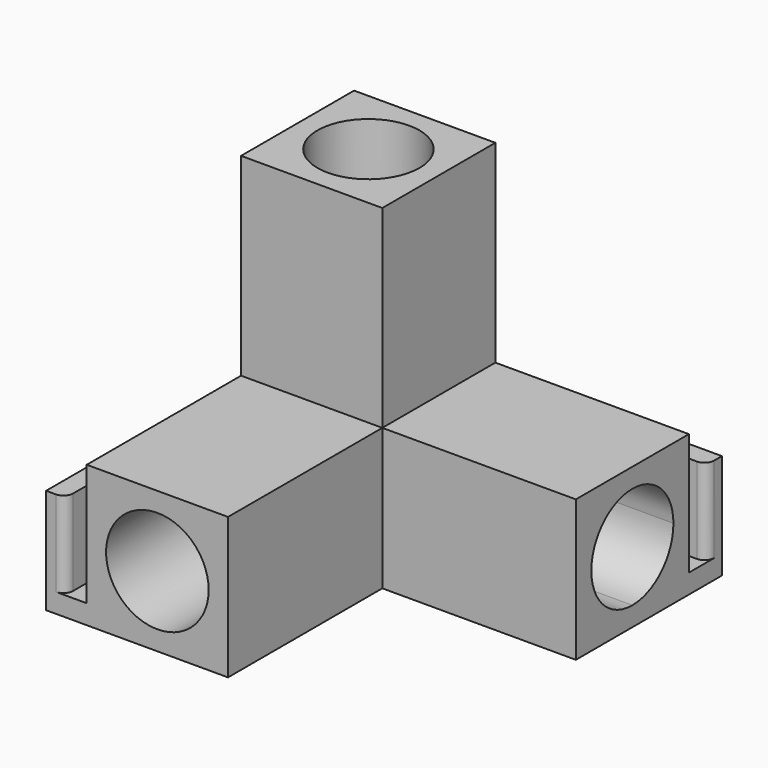
from build123d import *

# Parameters (mm, degrees)
F0_W      = 27
F0_H      = 15.9
F0_W_2    = 15.9
F0_H_2    = 27
F0_W_3    = 3
F0_H_3    = 3
F1_DEPTH  = 21.9
F2_DEPTH  = 51.8
F3_R      = 7.95
F6_DEPTH  = 30
F7_DEPTH  = 30
F4_R      = 7.9
F8_DEPTH  = 30
F10_DEPTH = 58.2
F11_W     = 3
F11_H     = 13.3
F13_R     = 1.5


with BuildPart() as f1:
    # F0 (on Front) → F1 (new body)
    with BuildSketch(Plane.XZ):
        with BuildLine():
            Line((-34.3576915575, 15.9), (-42.3076915575, 15.9))
            Line((-42.3076915575, 15.9), (-42.3076915575, 7.9499999931))
            ThreePointArc((-42.3076915575, 7.9499999931), (-39.9791904704, 13.571498908), (-34.3576915575, 15.9))
        make_face()
        with BuildLine():
            ThreePointArc((-34.3576915575, 15.9), (-39.9791904704, 13.571498908), (-42.3076915575, 7.9499999931))
            ThreePointArc((-42.3076915575, 7.9499999931), (-39.9791904655, 2.3285010871), (-34.3576915575, 0))
            ThreePointArc((-34.3576915575, 0), (-28.7361926471, 2.3285010896), (-26.4076915575, 7.95))
            ThreePointArc((-26.4076915575, 7.95), (-28.7361926471, 13.5714989104), (-34.3576915575, 15.9))
        make_face()
        Polygon((-42.3076915575, 18.9), (-42.3076915575, 45.9), (-26.4076915575, 45.9), (-26.4076915575, 18.9), (-23.4076915575, 18.9), (-23.4076915575, 48.9), (-45.3076915575, 48.9), (-45.3076915575, 18.9), align=None)
        with Locations((-9.9076915575, 7.95)):
            Rectangle(F0_W, F0_H)
        with Locations((-34.3576915575, 32.4)):
            Rectangle(F0_W_2, F0_H_2)
        with BuildLine():
            ThreePointArc((-34.3576915575, 0), (-39.9791904655, 2.3285010871), (-42.3076915575, 7.9499999931))
            Line((-42.3076915575, 7.9499999931), (-42.3076915575, 0))
            Line((-42.3076915575, 0), (-34.3576915575, 0))
        make_face()
        with BuildLine():
            Line((-26.4076915575, 0), (-26.4076915575, 7.95))
            ThreePointArc((-26.4076915575, 7.95), (-28.7361926471, 2.3285010896), (-34.3576915575, 0))
            Line((-34.3576915575, 0), (-26.4076915575, 0))
        make_face()
        with BuildLine():
            Line((-26.4076915575, 7.95), (-26.4076915575, 15.9))
            Line((-26.4076915575, 15.9), (-34.3576915575, 15.9))
            ThreePointArc((-34.3576915575, 15.9), (-28.7361926471, 13.5714989104), (-26.4076915575, 7.95))
        make_face()
        Polygon((6.5923084425, 18.9), (-23.4076915575, 18.9), (-23.4076915575, 15.9), (3.5923084425, 15.9), (3.5923084425, 0), (-23.4076915575, 0), (-23.4076915575, -3), (6.5923084425, -3), align=None)
        Polygon((-26.4076915575, 18.9), (-42.3076915575, 18.9), (-42.3076915575, 15.9), (-34.3576915575, 15.9), (-26.4076915575, 15.9), align=None)
        Polygon((-23.4076915575, 15.9), (-26.4076915575, 15.9), (-26.4076915575, 7.95), (-26.4076915575, 0), (-23.4076915575, 0), align=None)
        Polygon((-42.3076915575, 15.9), (-42.3076915575, 18.9), (-45.3076915575, 18.9), (-45.3076915575, -3), (-23.4076915575, -3), (-23.4076915575, 0), (-26.4076915575, 0), (-34.3576915575, 0), (-42.3076915575, 0), (-42.3076915575, 7.9499999931), align=None)
        with Locations((-24.9076915575, 17.4)):
            Rectangle(F0_W_3, F0_H_3)
    extrude(amount=F1_DEPTH)

    # F0 (on Front) → F2 (join)
    with BuildSketch(Plane.XZ):
        Polygon((-42.3076915575, 15.9), (-42.3076915575, 18.9), (-45.3076915575, 18.9), (-45.3076915575, -3), (-23.4076915575, -3), (-23.4076915575, 0), (-26.4076915575, 0), (-34.3576915575, 0), (-42.3076915575, 0), (-42.3076915575, 7.9499999931), align=None)
        with BuildLine():
            ThreePointArc((-34.3576915575, 15.9), (-39.9791904704, 13.571498908), (-42.3076915575, 7.9499999931))
            ThreePointArc((-42.3076915575, 7.9499999931), (-39.9791904655, 2.3285010871), (-34.3576915575, 0))
            ThreePointArc((-34.3576915575, 0), (-28.7361926471, 2.3285010896), (-26.4076915575, 7.95))
            ThreePointArc((-26.4076915575, 7.95), (-28.7361926471, 13.5714989104), (-34.3576915575, 15.9))
        make_face()
        Polygon((-26.4076915575, 18.9), (-42.3076915575, 18.9), (-42.3076915575, 15.9), (-34.3576915575, 15.9), (-26.4076915575, 15.9), align=None)
        Polygon((-23.4076915575, 15.9), (-26.4076915575, 15.9), (-26.4076915575, 7.95), (-26.4076915575, 0), (-23.4076915575, 0), align=None)
        with Locations((-24.9076915575, 17.4)):
            Rectangle(F0_W_3, F0_H_3)
        with BuildLine():
            Line((-26.4076915575, 7.95), (-26.4076915575, 15.9))
            Line((-26.4076915575, 15.9), (-34.3576915575, 15.9))
            ThreePointArc((-34.3576915575, 15.9), (-28.7361926471, 13.5714989104), (-26.4076915575, 7.95))
        make_face()
        with BuildLine():
            Line((-34.3576915575, 15.9), (-42.3076915575, 15.9))
            Line((-42.3076915575, 15.9), (-42.3076915575, 7.9499999931))
            ThreePointArc((-42.3076915575, 7.9499999931), (-39.9791904704, 13.571498908), (-34.3576915575, 15.9))
        make_face()
        with BuildLine():
            ThreePointArc((-34.3576915575, 0), (-39.9791904655, 2.3285010871), (-42.3076915575, 7.9499999931))
            Line((-42.3076915575, 7.9499999931), (-42.3076915575, 0))
            Line((-42.3076915575, 0), (-34.3576915575, 0))
        make_face()
        with BuildLine():
            Line((-26.4076915575, 0), (-26.4076915575, 7.95))
            ThreePointArc((-26.4076915575, 7.95), (-28.7361926471, 2.3285010896), (-34.3576915575, 0))
            Line((-34.3576915575, 0), (-26.4076915575, 0))
        make_face()
    extrude(amount=F2_DEPTH)

    # F3 (on face) → F6 (cut)
    with BuildSketch(Plane.XZ.offset(51.8)):
        with Locations((-34.3576915575, 7.95)):
            Circle(F3_R)
    extrude(amount=-F6_DEPTH, mode=Mode.SUBTRACT)

    # F5 (on face) → F7 (cut)
    with BuildSketch(Plane.YZ.offset(6.5923084425)):
        with BuildLine():
            ThreePointArc((-3, 7.95), (-5.3285010896, 13.5714989104), (-10.95, 15.9))
            ThreePointArc((-10.95, 15.9), (-16.5714989104, 13.5714989104), (-18.9, 7.95))
            ThreePointArc((-18.9, 7.95), (-16.5714989104, 2.3285010896), (-10.95, 0))
            ThreePointArc((-10.95, 0), (-5.3285010896, 2.3285010896), (-3, 7.95))
        make_face()
    extrude(amount=-F7_DEPTH, mode=Mode.SUBTRACT)

    # F4 (on face) → F8 (cut)
    with BuildSketch(Plane.XY.offset(48.9)):
        with Locations((-34.3576915575, -10.9)):
            Circle(F4_R)
    extrude(amount=-F8_DEPTH, mode=Mode.SUBTRACT)

    # F9 (on face) → F10 (join)
    with BuildSketch(Plane.XZ.offset(51.8)):
        Polygon((-51.6076915575, -3), (-45.3076915575, -3), (-45.3076915575, 0), (-48.6076915575, 0), (-48.6076915575, 13.3), (-51.6076915575, 13.3), align=None)
    extrude(amount=-F10_DEPTH)

    # F11 (on face) → F12 (join, up to the next surface of F1)
    with BuildSketch(Plane.YZ.offset(6.5923084425)):
        Polygon((6.4, -3), (6.4, 0), (3.4, 0), (0, 0), (0, -3), align=None)
        with Locations((4.9, 6.65)):
            Rectangle(F11_W, F11_H)
    extrude(until=Until.NEXT, dir=(-1, 0, 0))

    # F13
    f13_edges = [f1.edges().sort_by_distance(p)[0] for p in [
        (6.592308, 3.4, 6.65),
        (-48.607692, -51.8, 6.65),
    ]]
    fillet(f13_edges, radius=F13_R)


solid = f1.part
